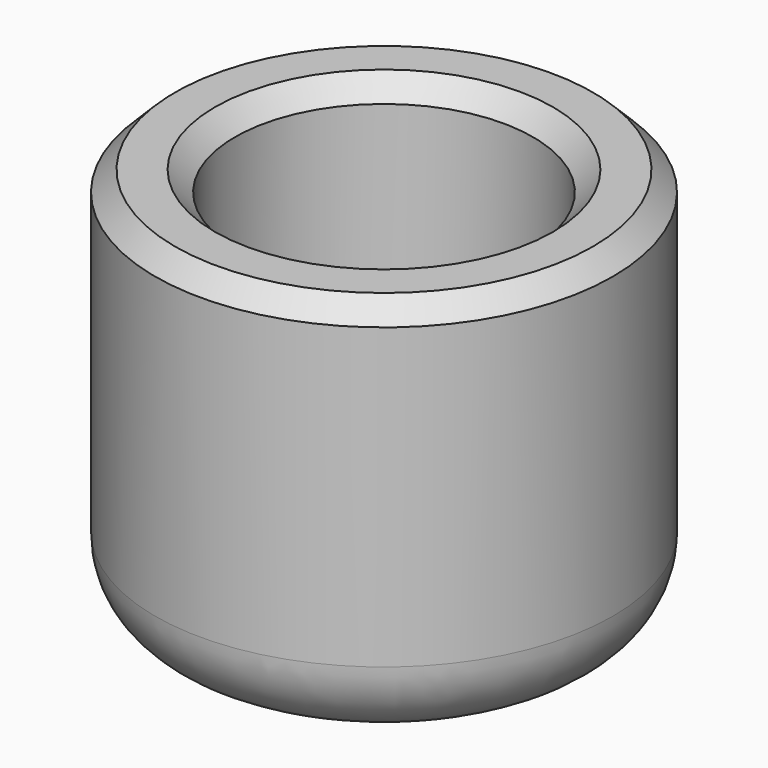
from build123d import *

# Parameters (mm, degrees)
F0_R     = 18.2245
F1_DEPTH = 31.75
F2_T     = -6.35
F3_R     = 6.35
F4_SIZE  = 1.5875


with BuildPart() as f1:
    # F0 (on Top) → F1 (new body)
    with BuildSketch(Plane.XY):
        Circle(F0_R)
    extrude(amount=F1_DEPTH)

    # F2
    f2_openings = [f1.faces().sort_by_distance(p)[0] for p in [
        (0, 0, 31.75),
    ]]
    offset(amount=F2_T, openings=f2_openings)

    # F3
    f3_edges = [f1.edges().sort_by_distance(p)[0] for p in [
        (-18.2245, 0, 0),
    ]]
    fillet(f3_edges, radius=F3_R)

    # F4
    f4_edges = [f1.edges().sort_by_distance(p)[0] for p in [
        (-18.2245, 0, 31.75),
        (-11.8745, 0, 31.75),
    ]]
    chamfer(f4_edges, length=F4_SIZE)


solid = f1.part
